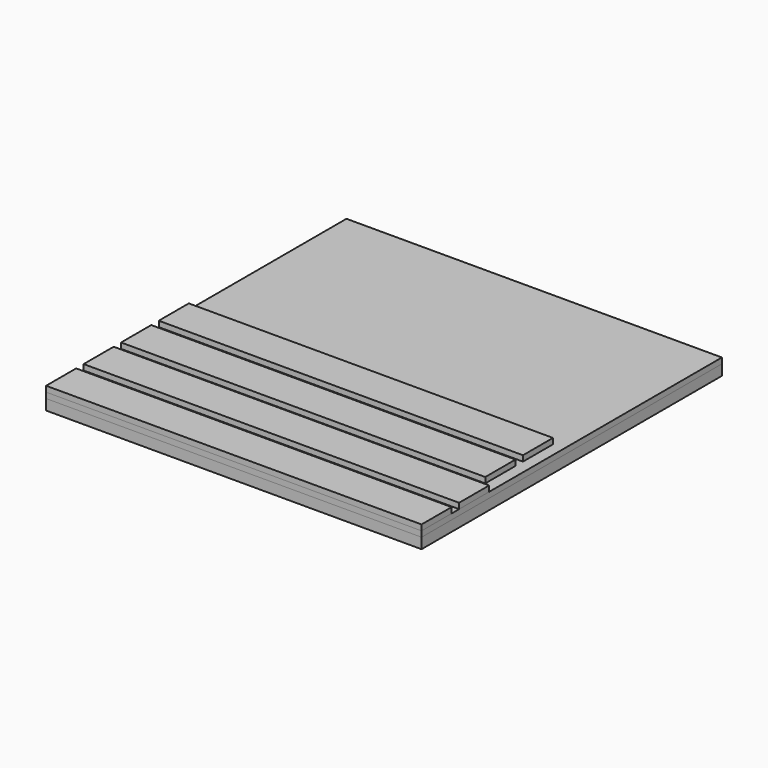
from build123d import *

# Parameters (mm, degrees)
F1_DEPTH  = 0.9525
F2_W      = 50.8
F2_H      = 50.8
F3_DEPTH  = 1.42875
F5_SCALE  = 4
F7_ANGLE  = 180
F8_W      = 203.2
F8_H      = 203.2
F9_DEPTH  = 3.048
F10_W     = 203.2
F10_H     = 20.32
F11_DEPTH = 3.048
F10_W_2   = 197.104
F10_H_2   = 20.4174289855


with BuildPart() as f1:
    # F0 (on Top) → F1 (new body)
    with BuildSketch(Plane.XY):
        with BuildLine():
            add(Edge.make_bspline(
                [(3.1629325822, 11.0989855602), (2.5742607932, 11.2564376714), (1.9419585774, 11.6786936484), (1.8634599122, 12.4479000889), (2.2461188238, 13.3950121024), (3.2391448561, 13.6568985254), (3.9031631431, 14.2292339529), (3.8998504389, 15.0930289999), (3.8979211822, 15.582033433)],
                knots=[0.2822476053, 0.2822476053, 0.2822476053, 0.2822476053, 0.4209692418, 0.5193531544, 0.6355531525, 0.754630313, 0.8613367926, 1, 1, 1, 1], degree=3))
            Line((3.1629325822, 11.0989855602), (12.5586800277, 10.9657654539))
            add(Edge.make_bspline(
                [(11.9375884533, 15.2973579243), (11.9283475028, 15.0887961162), (11.9100843262, 14.6766089587), (12.0513531582, 14.0689880354), (12.7217728377, 13.5710780478), (13.4968603261, 13.4835039306), (13.9391801908, 12.7548319748), (13.7882652266, 11.7059576348), (13.3367477319, 11.0457265831), (12.8184929056, 10.9924661266), (12.5586800277, 10.9657654539)],
                knots=[0, 0, 0, 0, 0.1140889384, 0.2254775006, 0.3538466257, 0.4787114621, 0.6038965456, 0.7511488754, 0.8752452972, 1, 1, 1, 1], degree=3))
            add(Edge.make_bspline(
                [(11.9375884533, 37.55615931), (11.9237550581, 37.315895022), (11.8958993257, 36.8320848217), (12.0840531937, 35.6462366359), (11.5521843256, 36.1756637), (11.8045641374, 36.8651595427), (11.3204648579, 36.661458536), (11.5769764182, 35.9048506471), (11.3142219836, 35.5152792378), (11.4601006687, 34.9857067683), (11.2278093704, 34.6649377532), (11.1272320969, 34.215339895), (11.4812621636, 31.5077235869), (10.8627690216, 31.4481639424), (10.8725012256, 31.0154528095), (10.9732415556, 30.1615594535), (10.8727643674, 29.9572522086), (10.8016169718, 27.6070137886), (11.1111536557, 27.7538522794), (11.2210773969, 26.0850476839), (10.646653019, 26.2537385831), (10.6563209469, 25.0179197935), (11.244371992, 24.9160615643), (10.8198263525, 24.1985727661), (10.7263717255, 22.602629009), (11.1106109088, 22.5400401142), (11.1081131881, 21.7162970675), (11.3045131862, 22.1941420756), (11.3108107948, 22.9817607487), (11.0549907634, 23.279203275), (11.2244592054, 24.0329329725), (11.3854064091, 24.5573173085), (11.7814886343, 24.8062352046), (11.5468646256, 25.6606781535), (11.7427916142, 26.2033923293), (11.6981923739, 26.7109944081), (12.0067374858, 28.6771939596), (11.9169632637, 26.5891073558), (11.9540061402, 25.3215190833), (11.9444879154, 19.5099684503), (11.9375884533, 15.2973579243)],
                knots=[0, 0, 0, 0, 0.0272491122, 0.0548704034, 0.0735228213, 0.0961762031, 0.1105252277, 0.1359157887, 0.1563618391, 0.1775144007, 0.1948503364, 0.2164156977, 0.2643948041, 0.2827077423, 0.3010192631, 0.3279941393, 0.3463492037, 0.3901231583, 0.4015922796, 0.4366338467, 0.4537841801, 0.4833564846, 0.5022085925, 0.5273416051, 0.5642080757, 0.5809125324, 0.6031055719, 0.6180981508, 0.6453764411, 0.6636893513, 0.6893350721, 0.7117156273, 0.7303174844, 0.7572703571, 0.7793917861, 0.803430923, 0.8362135597, 0.8679080357, 0.9042506838, 1, 1, 1, 1], degree=3))
            add(Edge.make_bspline(
                [(4.4256728142, 30.5273896083), (4.3678337242, 30.561479018), (4.2069789851, 30.6562841592), (4.4043372153, 31.3239049346), (3.822099362, 31.9473676451), (3.8918521593, 32.1065152181), (3.8083325014, 38.1743089853), (3.7633929764, 38.5563160804), (3.2049301431, 39.1272116541), (2.46715661, 39.216712265), (2.1418043987, 39.7692447795), (2.0345332681, 40.0916319116), (1.8704402149, 40.6533397161), (2.1785675567, 41.2612048894), (2.865855292, 41.7491509909), (4.3591840097, 41.6259731811), (12.666573546, 41.7352050339), (13.3079466878, 41.5807812227), (14.1048474414, 40.5054737883), (13.5547034593, 39.2699076394), (12.5909095451, 39.2005144805), (11.8467913224, 38.4987045096), (11.9072838805, 37.8707444662), (11.9375884533, 37.55615931)],
                knots=[0, 0, 0, 0, 0.0210456348, 0.0585294492, 0.0990280708, 0.1224697188, 0.237772683, 0.2723368766, 0.311126425, 0.3517213206, 0.3875455284, 0.4156307721, 0.4505444605, 0.4886133308, 0.5278306969, 0.5886985745, 0.724624636, 0.7646062234, 0.8146656374, 0.8650462271, 0.9099729884, 0.9548997396, 1, 1, 1, 1], degree=3))
            add(Edge.make_bspline(
                [(3.8998504389, 25.8608898148), (4.0660083524, 25.8316141798), (4.3593005387, 25.7799383756), (4.2400036207, 26.0885537602), (4.2194394922, 26.3043708366), (4.6479354636, 26.24757519), (4.6135539049, 26.5048725877), (4.8324836457, 26.6956950799), (4.5478900242, 26.8491361431), (4.6322739256, 27.1608764707), (4.5090219309, 28.227414579), (4.7388003856, 28.256383338), (4.7849556976, 28.5030132495), (4.6565923172, 28.6485518633), (4.4346131576, 28.5493174811), (4.7476643247, 29.6339089258), (4.3759368214, 29.6219896064), (4.4886535089, 30.1283296866), (4.4256728142, 30.5273896083)],
                knots=[0, 0, 0, 0, 0.0690433821, 0.1231498505, 0.168311691, 0.2311883881, 0.2812402495, 0.3339083434, 0.3852960939, 0.4500906532, 0.5628581621, 0.6072843307, 0.6590228712, 0.7046979968, 0.740457159, 0.8477543366, 0.8958675853, 1, 1, 1, 1], degree=3))
            add(Edge.make_bspline(
                [(3.8979211822, 15.582033433), (3.8985635692, 19.0083188936), (3.8992080519, 22.4346043542), (3.8998504389, 25.8608898148)],
                knots=[0, 0, 0, 0, 10.2788565628, 10.2788565628, 10.2788565628, 10.2788565628], degree=3))
        make_face()
        with BuildLine():
            add(Edge.make_bspline(
                [(6.744639948, 41.4269072935), (6.9153485083, 41.3859518152), (7.2054352092, 41.4145114995), (7.5262230692, 41.4044719396), (7.7364886147, 41.4077557443), (7.7607960891, 41.5631944378), (8.0816635795, 41.4256634382), (8.276513113, 41.428059194), (8.4146503446, 41.011407184), (8.0537771669, 40.8878236689), (7.4537972389, 40.8621362709), (7.277401509, 40.8918873148), (6.8511270971, 40.8641481048), (6.7225248456, 41.0740902298), (6.4073404224, 41.0768464877), (6.1567833762, 41.3899762263), (6.2880293665, 41.6197732639), (6.575213746, 41.4675551153), (6.744639948, 41.4269072935)],
                knots=[0, 0, 0, 0, 0.0797470857, 0.1462291838, 0.1950590614, 0.2307439962, 0.2936343725, 0.3452829052, 0.4107691217, 0.4760848336, 0.5656955381, 0.6182872673, 0.6898921499, 0.743502873, 0.8062006996, 0.8749354645, 0.9208519723, 1, 1, 1, 1], degree=3))
        make_face(mode=Mode.SUBTRACT)
    extrude(amount=F1_DEPTH)


with BuildPart() as f1b:
    # F0 (on Top) → F1, piece 2 (new body)
    with BuildSketch(Plane.XY):
        with BuildLine():
            add(Edge.make_bspline(
                [(17.9853755981, 11.1305741593), (17.989895035, 11.0771566968), (17.9978430386, 10.9832154315), (17.8769512187, 11.0546628471), (15.2872093287, 10.8076662812), (14.8184685913, 11.3320943298), (14.4074130198, 11.72275625), (14.4990024779, 12.5007283388), (14.2774047819, 13.2222366156), (15.9311729231, 13.8352182543), (15.8898263448, 14.8431585909), (16.0535911957, 18.7137223528), (15.8146507401, 20.9796680668), (16.350731797, 21.0209916665), (16.3565094808, 19.2066511316), (16.150109634, 18.092923446), (17.1018823183, 19.0406952178), (16.5248724178, 19.2623410357), (16.8854239134, 20.6041042726), (16.4898873907, 21.5009682869), (16.5567295475, 21.9767921676), (16.6092266684, 23.423632365), (16.0945865501, 24.0547806143), (16.6636489928, 24.4858824909), (16.2710197583, 25.9423476448), (16.7889323787, 25.9767713759), (16.7466613998, 26.666024028), (16.720499006, 27.119858594)],
                knots=[0, 0, 0, 0, 0.0150470297, 0.0264613494, 0.0941338553, 0.1305355552, 0.1603982601, 0.197357571, 0.2309798279, 0.2821632509, 0.322613301, 0.4095293597, 0.4708944549, 0.4886064901, 0.5462606361, 0.582354568, 0.6201224114, 0.6458461195, 0.6941255238, 0.735843249, 0.7657821108, 0.8168000463, 0.8519151226, 0.883914291, 0.93265554, 0.9556109193, 1, 1, 1, 1], degree=3))
            add(Edge.make_bspline(
                [(17.9853755981, 11.1305741593), (17.8916146011, 11.1928684993), (17.6962545105, 11.3226647717), (17.7850512893, 11.8317662004), (18.5751835804, 11.9497537604), (19.3499796533, 12.1404705819), (19.8443310395, 11.8155210109), (20.2274262818, 11.525121241), (20.2063823462, 11.2156539653), (20.1958995312, 11.0614961013)],
                knots=[0, 0, 0, 0, 0.1126978159, 0.2348167815, 0.4078190628, 0.5866080794, 0.7357605944, 0.8683719231, 1, 1, 1, 1], degree=3))
            add(Edge.make_bspline(
                [(20.1958995312, 11.0614961013), (21.7020136938, 11.0071893405), (23.7512613595, 10.9332985274), (24.204765236, 11.2392636803), (24.7418036737, 11.9209247449), (24.6947632041, 12.7461390273), (24.2338866805, 13.4248295341), (23.6940050674, 13.5652646324), (22.9510063581, 14.1237637484), (23.0505754779, 15.660866369), (23.0514766102, 21.9731171825), (23.0521578342, 26.7391190593)],
                knots=[0, 0, 0, 0, 0.1673956807, 0.2277596679, 0.3060221448, 0.3851611096, 0.4617361785, 0.5273550992, 0.604579659, 0.7014283767, 1, 1, 1, 1], degree=3))
            add(Edge.make_bspline(
                [(23.0521578342, 26.7391190593), (22.9229329413, 26.7638603577), (22.6243328974, 26.8204159058), (22.3914128079, 27.5653772413), (22.431137456, 28.7134092877), (22.5014847921, 29.593271241), (22.6158686573, 30.5822247907), (22.879816255, 31.1426366704), (22.7326575996, 30.013913603), (22.978722058, 30.3963719538), (23.159025237, 30.4797319695)],
                knots=[0, 0, 0, 0, 0.0956777988, 0.2254857165, 0.3928925028, 0.5428477174, 0.7039058277, 0.7826904761, 0.9046314132, 1, 1, 1, 1], degree=3))
            Line((23.159025237, 30.4797319695), (23.0805445462, 41.6903337464))
            Line((23.0805445462, 41.6903337464), (15.0915421546, 41.6903337464))
            add(Edge.make_bspline(
                [(15.7488039631, 38.8163457111), (15.6061574549, 38.8911712086), (15.2850509896, 39.0596082166), (14.5445222517, 39.5187063906), (14.4187776251, 40.2346800687), (14.3642062542, 40.9907661276), (14.8359503497, 41.4444999436), (15.0915421546, 41.6903337464)],
                knots=[0, 0, 0, 0, 0.1690158442, 0.3804655371, 0.574664847, 0.7695526442, 1, 1, 1, 1], degree=3))
            add(Edge.make_bspline(
                [(16.720499006, 27.119858594), (16.6494239737, 27.1364898275), (16.5097125037, 27.1710535878), (16.50901497, 27.4177401922), (16.206661988, 27.4219637129), (16.1974944404, 27.2596667257), (16.2714957437, 26.6665263277), (16.1544046524, 26.4798401682), (16.0578503012, 26.7755575366), (16.0700983748, 26.8721490489), (16.0033094506, 27.8941478073), (16.1296404053, 27.8478933559), (16.660508646, 27.755216144), (16.6566876695, 28.3621165193), (16.5587194977, 28.7171386701), (16.407203498, 29.2703353091), (16.184159992, 28.8727984766), (15.9383503478, 28.5064162288), (15.8675334516, 29.60189992), (15.968376492, 37.9952787841), (15.9370088045, 38.765499999), (15.7488039631, 38.8163457111)],
                knots=[0, 0, 0, 0, 0.033166088, 0.0660418998, 0.1009694085, 0.1282371216, 0.1877231791, 0.2131909805, 0.2477834384, 0.2795694211, 0.3517339287, 0.3713973714, 0.4201294293, 0.4710158792, 0.5219797744, 0.5682604446, 0.6102380648, 0.6505978957, 0.7135425632, 0.9358716057, 1, 1, 1, 1], degree=3))
        make_face()
    extrude(amount=F1_DEPTH)


with BuildPart() as f1c:
    # F0 (on Top) → F1, piece 3 (new body)
    with BuildSketch(Plane.XY):
        with BuildLine():
            Line((24.242610107, 41.6262188169), (24.2588724941, 39.3032124266))
            add(Edge.make_bspline(
                [(24.2588724941, 39.3032124266), (24.5093704713, 39.1827358159), (25.0031102496, 38.8933291595), (25.7265567724, 38.348347842), (26.0822716004, 36.4958864369), (25.9882456528, 34.8688242033), (26.0918165232, 28.1940477822), (25.9847190329, 27.2980740568), (25.6463731664, 25.878173741), (24.7819510143, 25.2590847647), (24.4387422706, 25.234931358), (24.3157986552, 25.183162652)],
                knots=[0, 0, 0, 0, 0.0836900761, 0.1687568506, 0.2863896549, 0.4151580246, 0.6480202137, 0.7421164348, 0.8474177402, 0.9390861994, 1, 1, 1, 1], degree=3))
            Line((24.3157986552, 25.183162652), (24.3157986552, 22.7392269298))
            add(Edge.make_bspline(
                [(31.0278842638, 25.3351741534), (30.9322357758, 25.1949343477), (30.4639510341, 24.5394310829), (29.6005543813, 23.5926377843), (26.874541274, 22.7179824754), (25.1611104348, 22.7333668739), (24.3157986552, 22.7392269298)],
                knots=[0.7169610167, 0.7169610167, 0.7169610167, 0.7169610167, 0.7362569044, 0.8119547866, 0.9071289469, 1, 1, 1, 1], degree=3))
            add(Edge.make_bspline(
                [(31.0278842638, 25.3351741534), (30.8860359916, 25.3564934291), (30.5889822512, 25.4027188884), (30.6219584331, 25.925634095), (30.7356792964, 26.0982936257), (30.5117253974, 26.2597660508), (31.1766676464, 26.4272939722), (31.2673594774, 26.0042190915), (31.3148790587, 25.7758615749)],
                knots=[0, 0, 0, 0, 0.1766332516, 0.3661097325, 0.4895262922, 0.5950383941, 0.7804506917, 1, 1, 1, 1], degree=3))
            add(Edge.make_bspline(
                [(31.1214830726, 38.8878872618), (31.3772784984, 38.5194593313), (31.9191868291, 37.7389364243), (33.0548798408, 35.1906915775), (32.2143204656, 35.806890816), (32.2933892788, 35.1697191609), (32.1527435174, 34.5377868088), (32.1676563901, 31.9996303577), (32.4042027247, 31.262722709), (32.465440547, 30.6866379529), (32.8642192553, 31.3593826127), (33.0927172994, 30.0182398995), (32.3708568104, 27.6530497961), (31.5957250047, 26.227629064), (31.3148790587, 25.7758615749)],
                knots=[0, 0, 0, 0, 0.0736958543, 0.1562607353, 0.1907715687, 0.2260487444, 0.2763633427, 0.3672090936, 0.4218239505, 0.4536644925, 0.4877430433, 0.5391280173, 0.6410765879, 0.6977008362, 0.6977008362, 0.6977008362, 0.6977008362], degree=3))
            add(Edge.make_bspline(
                [(24.242610107, 41.6262188169), (24.6544005726, 41.6385175877), (25.5537116747, 41.6656130067), (27.3237670143, 41.4305573288), (29.3689337778, 40.9404928746), (30.5281629742, 39.5936290353), (31.1214830726, 38.8878872618)],
                knots=[0, 0, 0, 0, 0.205281895, 0.4462871256, 0.7047751356, 1, 1, 1, 1], degree=3))
        make_face()
        with BuildLine():
            add(Edge.make_bspline(
                [(28.5739023238, 24.1136765108), (28.54324548, 24.2722309761), (29.8250552286, 25.1458268241), (30.3280128555, 25.7754528366), (30.2179722863, 25.2477877365), (29.9074265408, 24.8409483032), (30.0112452218, 24.532147061), (29.4489634535, 24.1823455374), (29.0642709635, 24.0712448308), (28.5893437918, 24.0338146141), (28.5739023238, 24.1136765108)],
                knots=[0, 0, 0, 0, 0.2147751618, 0.345287336, 0.4387832356, 0.5607439594, 0.6460278186, 0.7721596563, 0.8918204434, 1, 1, 1, 1], degree=3))
        make_face(mode=Mode.SUBTRACT)
    extrude(amount=F1_DEPTH)


with BuildPart() as f1d:
    # F0 (on Top) → F1, piece 4 (new body)
    with BuildSketch(Plane.XY):
        with BuildLine():
            add(Edge.make_bspline(
                [(32.447276637, 11.0905086622), (31.8654234475, 11.1680900256), (29.2642958401, 10.7773630921), (28.8084040063, 12.3884978383), (29.1795293277, 13.3339260127), (30.6842177358, 13.9973680402), (31.6605288546, 15.5683352672), (33.8876231172, 27.6633764811), (35.4432556778, 36.0985351726)],
                knots=[0, 0, 0, 0, 0.1575670107, 0.2614562904, 0.3506605706, 0.4612486518, 0.5737250796, 1, 1, 1, 1], degree=3))
            add(Edge.make_bspline(
                [(36.4103596658, 31.3666304573), (35.3563756648, 25.9368241513), (34.0205074142, 19.065582122), (33.4647979393, 16.3459109381), (33.3101858482, 14.7374752106), (34.6259155064, 13.5842610287), (35.5288913999, 12.7136441444), (35.2172365714, 10.9293278961), (34.0902600437, 11.131583713), (32.447276637, 11.0905086622)],
                knots=[0, 0, 0, 0, 0.3141915698, 0.450918815, 0.5534664225, 0.6651546306, 0.7617959618, 0.8569979073, 1, 1, 1, 1], degree=3))
            add(Edge.make_bspline(
                [(35.4432556778, 36.0985351726), (35.7656236738, 34.5212336009), (36.0879916698, 32.9439320291), (36.4103596658, 31.3666304573)],
                knots=[0, 0, 0, 0, 4.8297217682, 4.8297217682, 4.8297217682, 4.8297217682], degree=3))
        make_face()
    extrude(amount=F1_DEPTH)


with BuildPart() as f1e:
    # F0 (on Top) → F1, piece 5 (new body)
    with BuildSketch(Plane.XY):
        with BuildLine():
            add(Edge.make_bspline(
                [(43.2183686644, 39.7640159354), (42.933237642, 39.6522057376), (42.3154759875, 39.4099590254), (41.0621164966, 39.8782938945), (40.4949954583, 40.5012056044), (40.2547547305, 41.0028587905), (40.419765771, 41.4306107629), (40.5088271946, 41.661481373)],
                knots=[0, 0, 0, 0, 0.2130781642, 0.4616527454, 0.6626625196, 0.8179288117, 1, 1, 1, 1], degree=3))
            Line((40.5088271946, 41.661481373), (36.4426542073, 41.661481373))
            Line((36.4426542073, 41.661481373), (36.1522119492, 39.3669968471))
            Line((36.1522119492, 39.3669968471), (39.0050988644, 21.4116321877))
            Line((39.0050988644, 21.4116321877), (35.4881752282, 21.4116321877))
            Line((35.4881752282, 21.4116321877), (35.1218301803, 18.920478411))
            Line((35.1218301803, 18.920478411), (39.2493326217, 18.920478411))
            add(Edge.make_bspline(
                [(39.2493326217, 18.920478411), (39.2982769932, 18.937147488), (39.463758266, 18.9935057572), (39.1383982249, 18.0750344187), (40.0703127771, 17.8839835275), (40.2069910887, 17.3406119357), (39.9685308201, 17.1324293741), (39.7093194486, 17.5538857766), (39.574448724, 16.7665585867), (39.9031520574, 16.7829705994), (39.6525440735, 15.5183896565), (40.2070236101, 15.9743607551), (40.671568167, 15.780394607), (40.1742008491, 15.3855918577), (40.1318046365, 14.9536650641), (40.1146943207, 14.6012449233), (39.9573529453, 14.1677281302), (39.8736702526, 13.9786980047), (39.2354180826, 13.2473099778), (38.8707847172, 13.0011991105), (38.5977577556, 11.7028586289), (39.1707417338, 11.1530270565), (39.6903771907, 11.1195025966)],
                knots=[0, 0, 0, 0, 0.0245930626, 0.0836878835, 0.1477519176, 0.1966848841, 0.228776816, 0.2651709023, 0.3164391128, 0.3501404532, 0.4181434705, 0.4639066285, 0.5042926989, 0.5538614939, 0.6015883589, 0.6452524007, 0.6924429554, 0.7271962206, 0.7960668643, 0.8463479168, 0.9231404396, 1, 1, 1, 1], degree=3))
            Line((39.6903771907, 11.1195025966), (48.0143819004, 11.1195025966))
            add(Edge.make_bspline(
                [(48.0143819004, 11.1195025966), (48.1775450108, 11.0861504223), (48.5499851636, 11.010019924), (48.9766234759, 11.7651629126), (48.9631838215, 13.0856774873), (48.0849563499, 13.3209106046), (47.6510851164, 13.9396923496), (47.411641106, 14.2811844125)],
                knots=[0, 0, 0, 0, 0.1485089528, 0.3389902101, 0.5749891571, 0.7654458447, 1, 1, 1, 1], degree=3))
            Line((47.411641106, 14.2811844125), (43.2183686644, 39.7640159354))
        make_face()
        with BuildLine():
            add(Edge.make_bspline(
                [(43.5077417642, 28.535711579), (43.5363179034, 28.6518410582), (43.2681899603, 28.8823606755), (42.5994983116, 29.0983444972), (42.4238030283, 28.4662917289), (42.6659516364, 28.3103992027), (42.3374942713, 28.1902736493), (42.719640793, 27.2175421939), (43.725351084, 27.1974131695), (43.8958765386, 28.152192396), (43.1600171326, 28.1790951979), (43.4814764084, 28.4289728043), (43.5077417642, 28.535711579)],
                knots=[0, 0, 0, 0, 0.0922530163, 0.2064994701, 0.3082896256, 0.3711136002, 0.4346261939, 0.5700014098, 0.7004331112, 0.8202043434, 0.9152069398, 1, 1, 1, 1], degree=3))
        make_face(mode=Mode.SUBTRACT)
    extrude(amount=F1_DEPTH)


with BuildPart() as f3:
    # F2 (on Top) → F3 (new body)
    with BuildSketch(Plane.XY):
        with Locations((25.4, 25.4)):
            Rectangle(F2_W, F2_H)
    extrude(amount=F3_DEPTH)

    # F4: cut F1, F1b, F1c, F1d, F1e
    add(f1.part, mode=Mode.SUBTRACT)
    add(f1b.part, mode=Mode.SUBTRACT)
    add(f1c.part, mode=Mode.SUBTRACT)
    add(f1d.part, mode=Mode.SUBTRACT)
    add(f1e.part, mode=Mode.SUBTRACT)


with BuildPart() as f3_1:
    # F5: moved
    add(f3.part.scale(F5_SCALE))


with BuildPart() as f3_2:
    # F7: moved
    add(f3_1.part.rotate(Axis((101.6, 101.6, 5.715), (0, -1, 0)), F7_ANGLE))


with BuildPart() as f9:
    # F8 (on face) → F9 (new body)
    with BuildSketch(Plane.XY.offset(11.43)):
        with Locations((101.6, 101.6)):
            Rectangle(F8_W, F8_H)
    extrude(amount=F9_DEPTH)


with BuildPart() as f11:
    # F10 (on face) → F11 (new body)
    with BuildSketch(Plane.XY.offset(14.478)):
        with Locations((101.6, 10.16)):
            Rectangle(F10_W, F10_H)
    extrude(amount=F11_DEPTH)


with BuildPart() as f11b:
    # F10 (on face) → F11, piece 2 (new body)
    with BuildSketch(Plane.XY.offset(14.478)):
        with Locations((101.6, 35.56)):
            Rectangle(F10_W, F10_H)
    extrude(amount=F11_DEPTH)


with BuildPart() as f11c:
    # F10 (on face) → F11, piece 3 (new body)
    with BuildSketch(Plane.XY.offset(14.478)):
        with Locations((98.552, 60.9315252091)):
            Rectangle(F10_W_2, F10_H_2)
    extrude(amount=F11_DEPTH)


with BuildPart() as f11d:
    # F10 (on face) → F11, piece 4 (new body)
    with BuildSketch(Plane.XY.offset(14.478)):
        with Locations((98.552, 86.3843572464)):
            Rectangle(F10_W_2, F10_H)
    extrude(amount=F11_DEPTH)


solid = Compound([f3_2.part, f9.part, f11.part, f11b.part, f11c.part, f11d.part])
